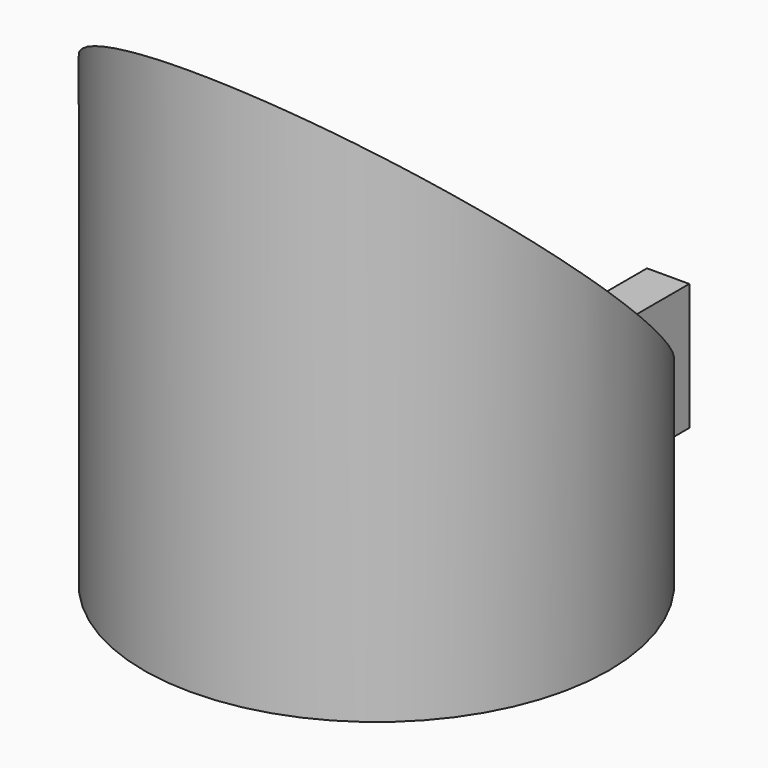
from build123d import *

# Parameters (mm, degrees)
BOX001_W               = 1
BOX001_H               = 3
BOX001_DEPTH           = 3
BOX002_W               = 16
BOX002_H               = 22
BOX002_DEPTH           = 13
BOX002_PLACEMENT_ANGLE = 42.6
CYLINDER002_R          = 4
CYLINDER002_DEPTH      = 15
BOX_W                  = 16
BOX_H                  = 22
BOX_DEPTH              = 13
BOX_PLACEMENT_ANGLE    = 42.6
CYLINDER001_R          = 4
CYLINDER001_DEPTH      = 15
CYLINDER_R             = 5.5
CYLINDER_DEPTH         = 13


with BuildPart() as cube001:
    # Box001 → Box001 (new body)
    with BuildSketch(Plane(origin=(-0.4, 5.5, 0), x_dir=(1, 0, 0), z_dir=(0, 0, 1))):
        with Locations((0.5, 1.5)):
            Rectangle(BOX001_W, BOX001_H)
    extrude(amount=BOX001_DEPTH)


with BuildPart() as cube002:
    # Box002 → Box002 (new body)
    with BuildSketch(Plane.XY):
        with Locations((8, 11)):
            Rectangle(BOX002_W, BOX002_H)
    extrude(amount=BOX002_DEPTH)


with BuildPart() as cube002_1:
    # Box002 placement: moved
    add(cube002.part.moved(Location((-7.1, -7.1, 14.4))).rotate(Axis((-7.1, -7.1, 14.4), (-1, 0, 0)), BOX002_PLACEMENT_ANGLE))


with BuildPart() as cut002:
    # Cylinder002 → Cylinder002 (new body)
    with BuildSketch(Plane.XY.offset(2)):
        Circle(CYLINDER002_R)
    extrude(amount=CYLINDER002_DEPTH)

    # Cut002: cut Cube002
    add(cube002_1.part, mode=Mode.SUBTRACT)


with BuildPart() as cube:
    # Box → Box (new body)
    with BuildSketch(Plane.XY):
        with Locations((8, 11)):
            Rectangle(BOX_W, BOX_H)
    extrude(amount=BOX_DEPTH)


with BuildPart() as cube_1:
    # Box placement: moved
    add(cube.part.moved(Location((-7.1, -7.1, 14.4))).rotate(Axis((-7.1, -7.1, 14.4), (-1, 0, 0)), BOX_PLACEMENT_ANGLE))


with BuildPart() as cylinder001:
    # Cylinder001 → Cylinder001 (new body)
    with BuildSketch(Plane.XY):
        Circle(CYLINDER001_R)
    extrude(amount=CYLINDER001_DEPTH)


with BuildPart() as fusion:
    # Cylinder → Cylinder (new body)
    with BuildSketch(Plane.XY):
        Circle(CYLINDER_R)
    extrude(amount=CYLINDER_DEPTH)

    # Cut: cut Cylinder001
    add(cylinder001.part, mode=Mode.SUBTRACT)

    # Cut001: cut Cube
    add(cube_1.part, mode=Mode.SUBTRACT)

    # Fusion: union Cut002
    add(cut002.part)


solid = Compound([cube001.part, fusion.part])
